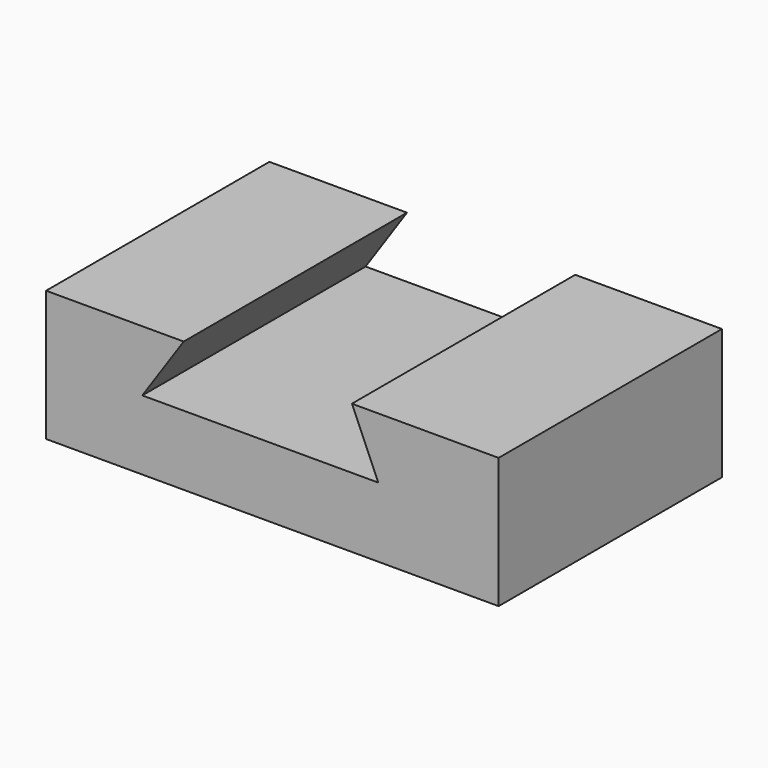
from build123d import *

# Parameters (mm, degrees)
F0_W     = 86.65663
F0_H     = 53.448798
F1_DEPTH = 25
F3_DEPTH = 2000


with BuildPart() as f1:
    # F0 (on Top) → F1 (new body)
    with BuildSketch(Plane.XY):
        with Locations((6.16717, 5.692772)):
            Rectangle(F0_W, F0_H)
    extrude(amount=F1_DEPTH)

    # F2 (on face) → F3 (cut)
    with BuildSketch(Plane.XZ.offset(21.031627)):
        Polygon((21.40177, 25), (-10.808534, 25), (-18.73602, 13.339347), (26.436701, 13.339347), align=None)
    extrude(amount=-F3_DEPTH, mode=Mode.SUBTRACT)


solid = f1.part
